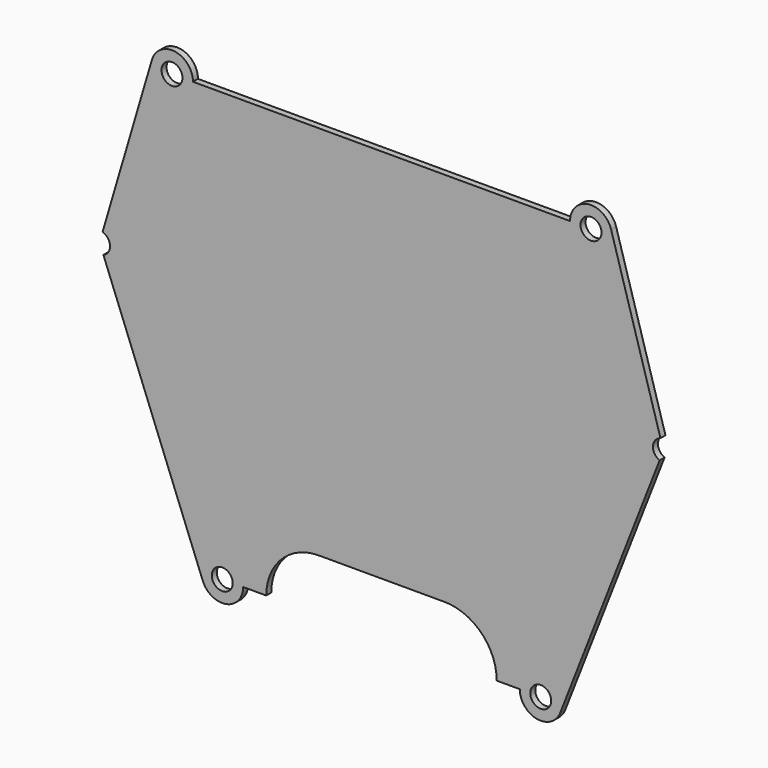
from build123d import *

# Parameters (mm, degrees)
F0_R     = 5
F1_DEPTH = 3


with BuildPart() as f1:
    # F0 (on Front) → F1 (new body)
    with BuildSketch(Plane.XZ):
        with BuildLine():
            Line((-10, 0), (-100, 0))
            Line((-100, 0), (-190, 0))
            ThreePointArc((-190, 0), (-198.573651, 9.897754), (-209.593106, 2.823529))
            Line((-209.593106, 2.823529), (-233.14597, -77.198701))
            ThreePointArc((-233.14597, -77.198701), (-229.562348, -81.780513), (-232.739553, -86.652959))
            Line((-232.739553, -86.652959), (-185.31541, -208.141173))
            ThreePointArc((-185.31541, -208.141173), (-174.149878, -214.332172), (-166, -204.50481))
            Line((-166, -204.50481), (-155, -204.50481))
            ThreePointArc((-155, -204.50481), (-147.67767, -186.82714), (-130, -179.50481))
            Line((-130, -179.50481), (-100, -179.50481))
            Line((-100, -179.50481), (-70, -179.50481))
            ThreePointArc((-70, -179.50481), (-52.32233, -186.82714), (-45, -204.50481))
            Line((-45, -204.50481), (-34, -204.50481))
            ThreePointArc((-34, -204.50481), (-25.850122, -214.332172), (-14.68459, -208.141173))
            Line((-14.68459, -208.141173), (32.739553, -86.652959))
            ThreePointArc((32.739553, -86.652959), (29.562348, -81.780513), (33.14597, -77.198701))
            Line((33.14597, -77.198701), (9.593106, 2.823529))
            ThreePointArc((9.593106, 2.823529), (-1.426349, 9.897754), (-10, 0))
        make_face()
        with Locations((-176, -204.50481)):
            Circle(F0_R, mode=Mode.SUBTRACT)
        with Locations((-24, -204.50481)):
            Circle(F0_R, mode=Mode.SUBTRACT)
        with Locations((-200, 0)):
            Circle(F0_R, mode=Mode.SUBTRACT)
        Circle(F0_R, mode=Mode.SUBTRACT)
    extrude(amount=F1_DEPTH)


solid = f1.part
